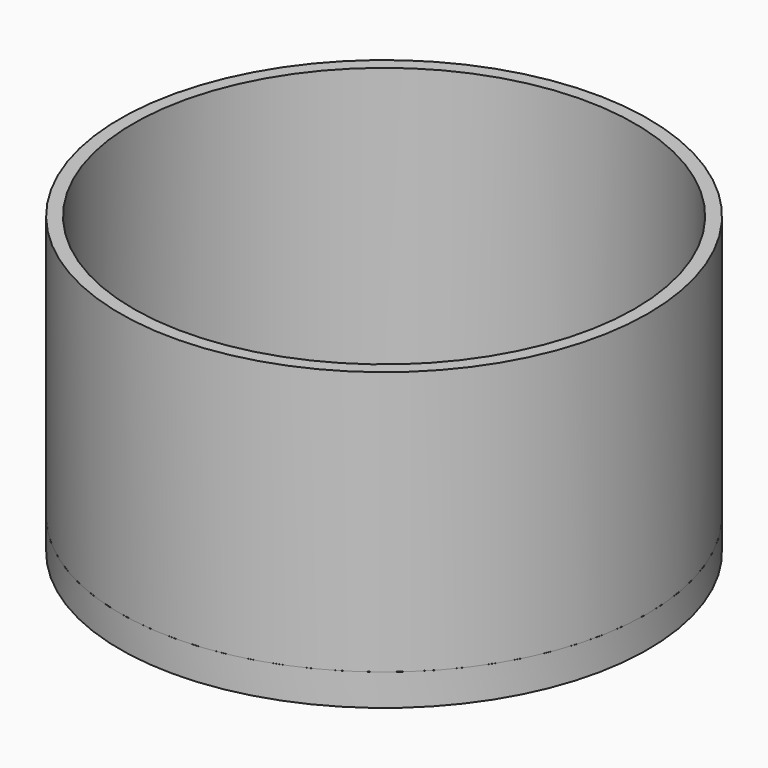
from build123d import *

# Parameters (mm, degrees)
EXTRUDE_SKETCH_DEPTH    = 1.2
SKETCH001_R             = 10
SKETCH001_R_2           = 9.5
EXTRUDE_SKETCH001_DEPTH = 10


with BuildPart() as sketch_extrude:
    # Sketch → Extrude_Sketch (new body)
    with BuildSketch(Plane.XY):
        with BuildLine():
            ThreePointArc((-3.122499, 9.5), (0, -10), (3.122499, 9.5))
            Line((-3.122499, 9.5), (3.122499, 9.5))
        make_face()
    extrude(amount=EXTRUDE_SKETCH_DEPTH)


with BuildPart() as sketch001_extrude:
    # Sketch001 → Extrude_Sketch001 (new body)
    with BuildSketch(Plane.XY.offset(1.2)):
        Circle(SKETCH001_R)
        Circle(SKETCH001_R_2, mode=Mode.SUBTRACT)
    extrude(amount=EXTRUDE_SKETCH001_DEPTH)


solid = Compound([sketch_extrude.part, sketch001_extrude.part])
